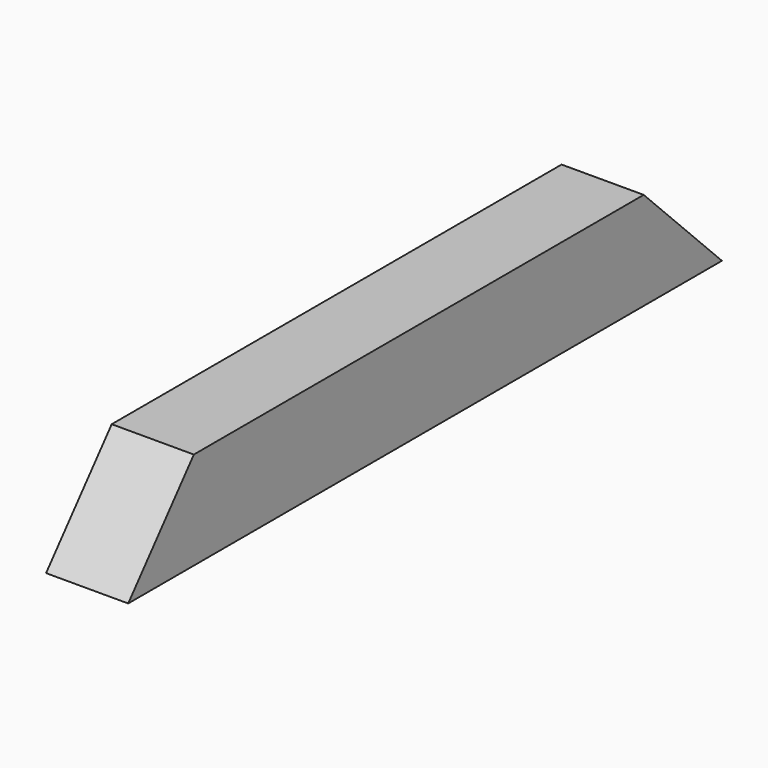
from build123d import *

# Parameters (mm, degrees)
F0_W     = 63
F0_H     = 75
F1_DEPTH = 569.31635
F3_DEPTH = 63.001


with BuildPart() as f1:
    # F0 (on Front) → F1 (new body)
    with BuildSketch(Plane.XZ):
        Rectangle(F0_W, F0_H)
    extrude(amount=F1_DEPTH)

    # F2 (on face) → F3 (cut, through all)
    with BuildSketch(Plane(origin=(-31.5, 0, 0), x_dir=(0, -1, 0), z_dir=(-1, 0, 0))):
        Polygon((0, 37.5), (0, -37.5), (75, 37.5), align=None)
        Polygon((506.383878, 37.5), (569.31635, -37.5), (569.31635, 37.5), align=None)
    extrude(amount=-F3_DEPTH, mode=Mode.SUBTRACT)


solid = f1.part
